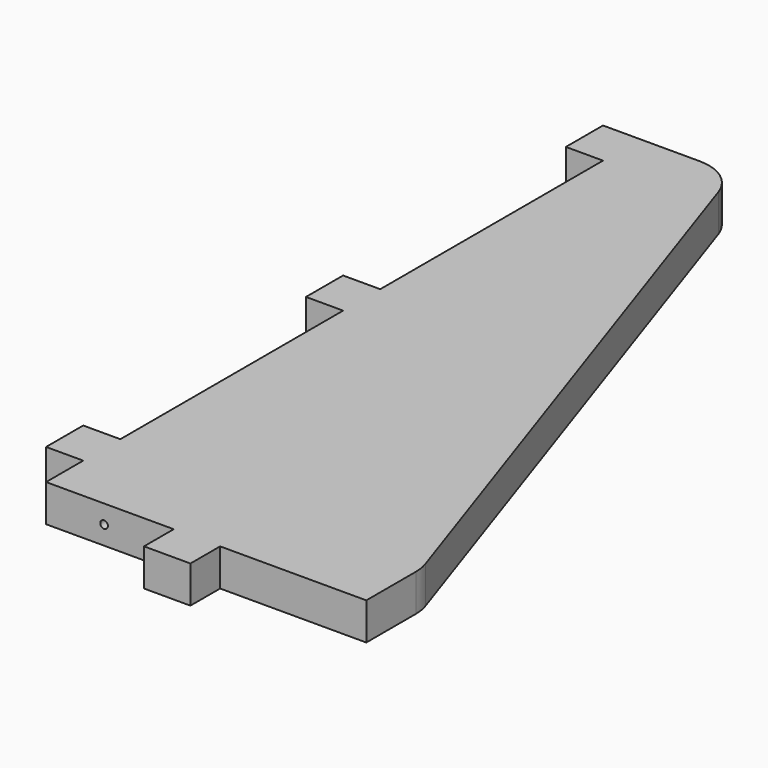
from build123d import *

# Parameters (mm, degrees)
F1_DEPTH = 16
F2_W     = 16
F2_H     = 20
F2_W_2   = 20
F2_H_2   = 16
F3_DEPTH = 16
F4_R     = 20
F6_D     = 3.3
F6_DEPTH = 20
F6_TIP   = 0.9914200214
F8_D     = 3.3


with BuildPart() as f1:
    # F0 (on Top) → F1 (new body)
    with BuildSketch(Plane.XY):
        Polygon((0, 320), (0, 0), (138, 0), (138, 30), (40, 320), align=None)
    extrude(amount=F1_DEPTH)

    # F2 (on face) → F3 (join, through all)
    with BuildSketch(Plane.XY.offset(16)):
        with Locations((-8, 310)):
            Rectangle(F2_W, F2_H)
        with Locations((-8, 170)):
            Rectangle(F2_W, F2_H)
        with Locations((65, -8)):
            Rectangle(F2_W_2, F2_H_2)
        with Locations((-8, 30)):
            Rectangle(F2_W, F2_H)
    extrude(amount=-F3_DEPTH)

    # F4
    f4_edges = [f1.edges().sort_by_distance(p)[0] for p in [
        (40, 320, 8),
        (138, 30, 8),
    ]]
    fillet(f4_edges, radius=F4_R)

    # F6
    with Locations(Plane(origin=(0, 0, 0), x_dir=(0, -1, 0), z_dir=(-1, 0, 0))):
        with Locations((-240, 8), (-100, 8)):
            Hole(F6_D / 2, depth=F6_DEPTH)
            with Locations((0, 0, -(F6_DEPTH + F6_TIP / 2))):  # 118° drill point
                Cone(0, F6_D / 2, F6_TIP, mode=Mode.SUBTRACT)

    # F8 (through all)
    with Locations(Plane.XZ):
        with Locations((25, 8)):
            Hole(F8_D / 2)


solid = f1.part
